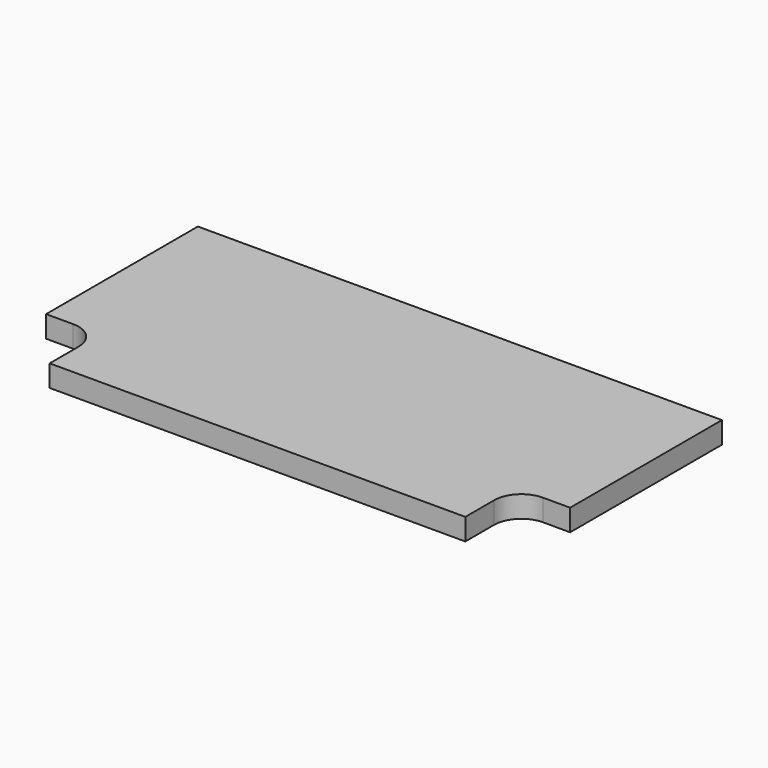
from build123d import *

# Parameters (mm, degrees)
F0_W     = 184.15
F0_H     = 88.9
F1_DEPTH = 15.24


with BuildPart() as f1:
    # F0 (on Top) → F1 (new body)
    with BuildSketch(Plane.XY):
        with Locations((-92.075, 44.45)):
            Rectangle(F0_W, F0_H)
        with Locations((92.075, 44.45)):
            Rectangle(F0_W, F0_H)
        with BuildLine():
            Line((0, 0), (-184.15, 0))
            Line((-184.15, 0), (-184.15, -44.45))
            Line((-184.15, -44.45), (-165.1, -44.45))
            ThreePointArc((-165.1, -44.45), (-151.6296158184, -50.0296158184), (-146.05, -63.5))
            Line((-146.05, -63.5), (-146.05, -88.9))
            Line((-146.05, -88.9), (0, -88.9))
            Line((0, -88.9), (0, 0))
        make_face()
        with BuildLine():
            Line((184.15, 0), (0, 0))
            Line((0, 0), (0, -88.9))
            Line((0, -88.9), (146.05, -88.9))
            Line((146.05, -88.9), (146.05, -63.5))
            ThreePointArc((146.05, -63.5), (151.6296158184, -50.0296158184), (165.1, -44.45))
            Line((165.1, -44.45), (184.15, -44.45))
            Line((184.15, -44.45), (184.15, 0))
        make_face()
    extrude(amount=F1_DEPTH)


solid = f1.part
